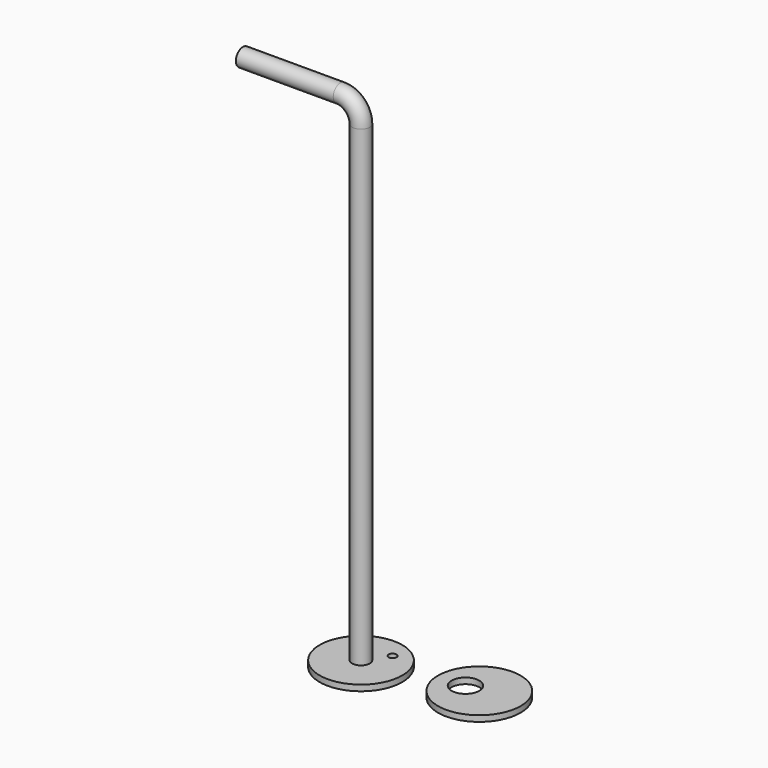
from build123d import *

# Parameters (mm, degrees)
F0_R        = 140
F0_R_2      = 30
F0_R_3      = 13.335
F1_DEPTH    = 20
F0_R_4      = 25
F2_DEPTH    = 1620
F2_FACE_R   = 30
F2_FACE_R_2 = 25
F0_R_5      = 47
F8_DEPTH    = 20


with BuildPart() as f1:
    # F0 (on Top) → F1 (new body)
    with BuildSketch(Plane.XY):
        Circle(F0_R)
        Circle(F0_R_2, mode=Mode.SUBTRACT)
        with Locations((49.9867759645, 71.7180371284)):
            Circle(F0_R_3, mode=Mode.SUBTRACT)
    extrude(amount=F1_DEPTH)

    # F0 (on Top) → F2 (join)
    with BuildSketch(Plane.XY):
        Circle(F0_R_2)
        Circle(F0_R_4, mode=Mode.SUBTRACT)
    extrude(amount=F2_DEPTH)

    # F7: sweep along a path in F6
    with BuildLine(Plane.XZ) as f7_path:
        ThreePointArc((0, 1620), (-20.5025253169, 1669.4974746831), (-70, 1690))
        Line((-70, 1690), (-400, 1690))
    # F2_face (on face) → F7 (sweep)
    with BuildSketch(Plane.XY.offset(1620)):
        Circle(F2_FACE_R)
        Circle(F2_FACE_R_2, mode=Mode.SUBTRACT)
    sweep(path=f7_path.line)


with BuildPart() as f8:
    # F0 (on Top) → F8 (new body)
    with BuildSketch(Plane.XY):
        with Locations((354.2005717754, 58.7051436305)):
            Circle(F0_R)
        with Locations((307.2435322225, 58.7051436305)):
            Circle(F0_R_5, mode=Mode.SUBTRACT)
    extrude(amount=F8_DEPTH)


solid = Compound([f1.part, f8.part])
